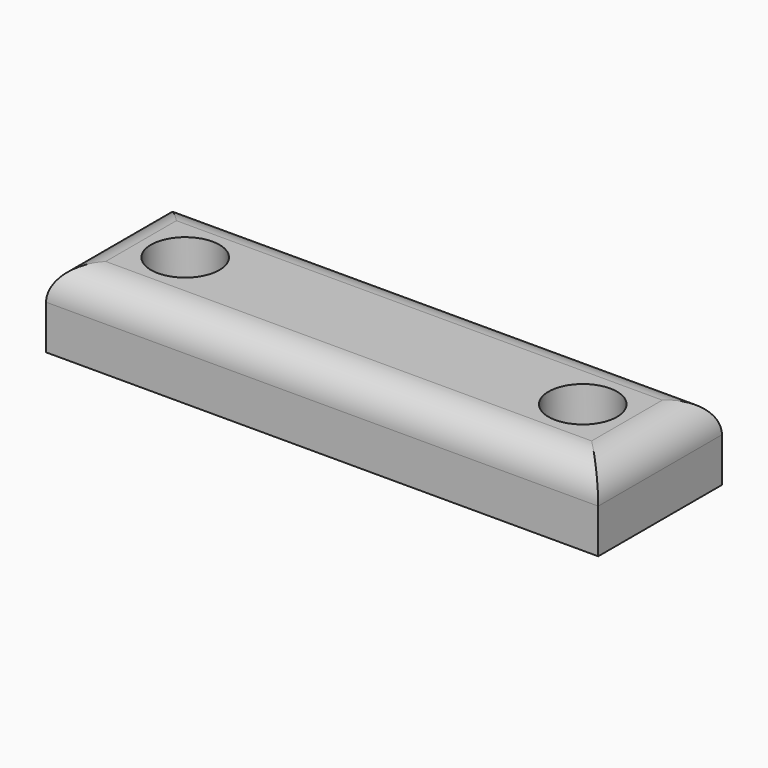
from build123d import *

# Parameters (mm, degrees)
F0_W     = 63.5
F0_H     = 17.78
F1_DEPTH = 8.89
F2_R     = 3.937
F3_DEPTH = 6.35
F4_R     = 3.81


with BuildPart() as f1:
    # F0 (on Top) → F1 (new body)
    with BuildSketch(Plane.XY):
        with Locations((31.75, 8.89)):
            Rectangle(F0_W, F0_H)
    extrude(amount=F1_DEPTH)

    # F2 (on face) → F3 (cut)
    with BuildSketch(Plane.XY.offset(8.89)):
        with Locations((8.89, 8.89)):
            Circle(F2_R)
        with Locations((54.61, 8.89)):
            Circle(F2_R)
    extrude(amount=-F3_DEPTH, mode=Mode.SUBTRACT)

    # F4
    f4_edges = [f1.edges().sort_by_distance(p)[0] for p in [
        (31.75, 0, 8.89),
        (0, 8.89, 8.89),
        (31.75, 17.78, 8.89),
        (63.5, 8.89, 8.89),
    ]]
    fillet(f4_edges, radius=F4_R)


solid = f1.part
